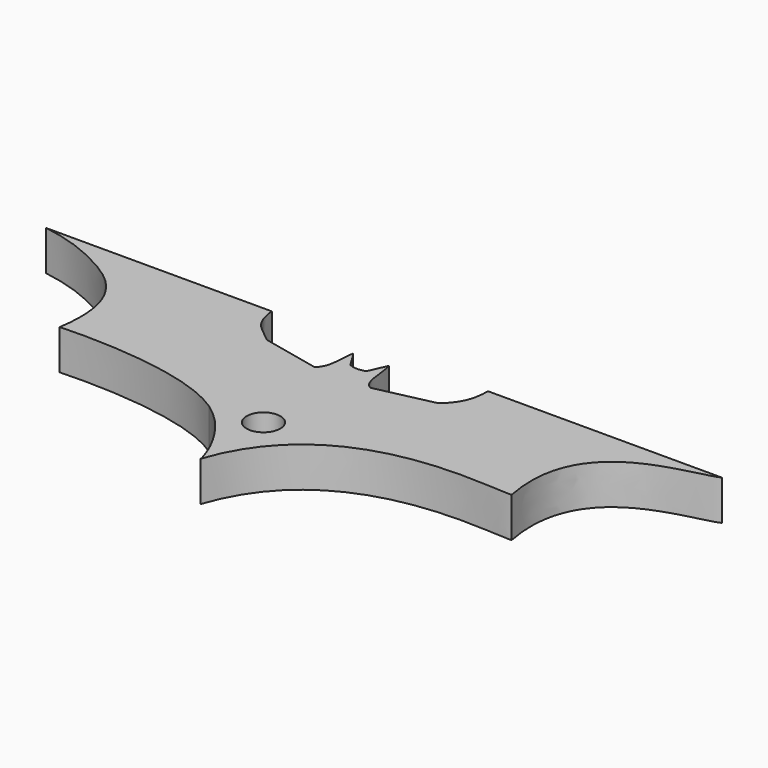
from build123d import *

# Parameters (mm, degrees)
F1_DEPTH = 3
F2_R     = 1.27
F3_DEPTH = 3


with BuildPart() as f1:
    # F0 (on Top) → F1 (new body)
    with BuildSketch(Plane.XY):
        with BuildLine():
            add(Edge.make_bspline(
                [(-16.9085351978, -1.7878697729), (-14.8443636354, -1.6895750583), (-7.6248778439, -1.5256503386), (-3.7704250062, -4.1743675483)],
                knots=[0, 0, 0, 0, 0.5855627903, 0.5855627903, 0.5855627903, 0.5855627903], degree=3))
            add(Edge.make_bspline(
                [(-16.9085351978, -1.7878697729), (-14.8443636354, -1.6895750583), (-7.5897151154, -1.5991376946), (-3.7704250062, -4.1743675483)],
                knots=[0, 0, 0, 0, 0.5584006059, 0.5584006059, 0.5584006059, 0.5584006059], degree=3))
        make_face()
        with BuildLine():
            add(Edge.make_bspline(
                [(-3.7704249537, -4.1743675837), (-1.808236756, -5.4974107594), (-0.7527996382, -7.5240476504), (-0.2885426992, -8.7132864323)],
                knots=[0.5584006085, 0.5584006085, 0.5584006085, 0.5584006085, 0.8452830018, 0.8452830018, 0.8452830018, 0.8452830018], degree=3))
            add(Edge.make_bspline(
                [(-3.770424954, -4.1743675842), (-1.8517399499, -5.492856691), (-0.7668728527, -7.5082873132), (-0.2885426992, -8.7132864323)],
                knots=[0.5855627929, 0.5855627929, 0.5855627929, 0.5855627929, 0.8770465912, 0.8770465912, 0.8770465912, 0.8770465912], degree=3))
        make_face()
        with BuildLine():
            add(Edge.make_bspline(
                [(-0.2885426992, -8.7132864323), (-0.1305291743, -9.1113507335), (-0.0387053265, -9.4209749157), (-0.0048777858, -9.5878189026)],
                knots=[0.8770465912, 0.8770465912, 0.8770465912, 0.8770465912, 0.9733365325, 0.9733365325, 0.9733365325, 0.9733365325], degree=3))
            add(Edge.make_bspline(
                [(-0.2885426992, -8.7132864323), (-0.1261850348, -9.1291811982), (-0.0361290935, -9.4426616269), (-0.0048777858, -9.5878189026)],
                knots=[0.8452830018, 0.8452830018, 0.8452830018, 0.8452830018, 0.9456101083, 0.9456101083, 0.9456101083, 0.9456101083], degree=3))
        make_face()
        with BuildLine():
            add(Edge.make_bspline(
                [(-16.9085351978, -1.7878697729), (-14.8443636354, -1.6895750583), (-7.6248778439, -1.5256503386), (-3.7704250062, -4.1743675483)],
                knots=[0, 0, 0, 0, 0.5855627903, 0.5855627903, 0.5855627903, 0.5855627903], degree=3))
            add(Edge.make_bspline(
                [(-16.9085351978, -1.7878697729), (-14.8443636354, -1.6895750583), (-7.5897151154, -1.5991376946), (-3.7704250062, -4.1743675483)],
                knots=[0, 0, 0, 0, 0.5584006059, 0.5584006059, 0.5584006059, 0.5584006059], degree=3))
        make_face()
        with BuildLine():
            Line((-8.4308702497, 7.5457646428), (-25.4, 7.5457646428))
            add(Edge.make_bspline(
                [(-25.4, 7.5457646428), (-23.6483064674, 7.2843289469), (-20.0677117846, 6.0530316163), (-16.1603537368, 2.9635369546), (-16.9085351978, -1.7878697729)],
                knots=[0, 0, 0, 0, 0.4420840454, 1, 1, 1, 1], degree=3))
            add(Edge.make_bspline(
                [(-16.9085351978, -1.7878697729), (-14.8443636354, -1.6895750583), (-7.6248778439, -1.5256503386), (-3.7704250062, -4.1743675483)],
                knots=[0, 0, 0, 0, 0.5855627903, 0.5855627903, 0.5855627903, 0.5855627903], degree=3))
            add(Edge.make_bspline(
                [(-3.7704249537, -4.1743675837), (-1.808236756, -5.4974107594), (-0.7527996382, -7.5240476504), (-0.2885426992, -8.7132864323)],
                knots=[0.5584006085, 0.5584006085, 0.5584006085, 0.5584006085, 0.8452830018, 0.8452830018, 0.8452830018, 0.8452830018], degree=3))
            add(Edge.make_bspline(
                [(-0.2885426992, -8.7132864323), (-0.1305291743, -9.1113507335), (-0.0387053265, -9.4209749157), (-0.0048777858, -9.5878189026)],
                knots=[0.8770465912, 0.8770465912, 0.8770465912, 0.8770465912, 0.9733365325, 0.9733365325, 0.9733365325, 0.9733365325], degree=3))
            add(Edge.make_bspline(
                [(-0.0048777858, -9.5878189026), (-0.0030520533, -9.5962991351), (0.0034010118, -9.627693158), (0.0067316298, -9.6498207392), (0.0077194734, -9.6630339588)],
                knots=[0.9456101083, 0.9456101083, 0.9456101083, 0.9456101083, 0.9514713176, 0.9688852048, 0.9688852048, 0.9688852048, 0.9688852048], degree=3))
            add(Edge.make_bspline(
                [(0.0077194734, -9.6630339588), (0.0090489603, -9.6743391034), (0.0098252939, -9.6841526902), (0.0100564033, -9.6924221324)],
                knots=[0.9904756857, 0.9904756857, 0.9904756857, 0.9904756857, 1, 1, 1, 1], degree=3))
            add(Edge.make_bspline(
                [(0.0100564033, -9.6924221324), (3.4792163022, 0.557724519), (16.1154395251, -2.1607646022), (17.1223111145, -1.8587033359)],
                knots=[0, 0, 0, 0, 18.8201065747, 18.8201065747, 18.8201065747, 18.8201065747], degree=3))
            add(Edge.make_bspline(
                [(17.1223111145, -1.8587033359), (15.5113176939, 6.498326787), (23.4365987873, 6.652168098), (25.4, 7.5457646428)],
                knots=[0, 0, 0, 0, 12.5285334835, 12.5285334835, 12.5285334835, 12.5285334835], degree=3))
            Line((25.4, 7.5457646428), (7.8300975704, 7.5457646428))
            add(Edge.make_bspline(
                [(6.4998223708, 4.5349283804), (7.7080674362, 5.5921426372), (7.7797549029, 6.5514806585), (7.8300975704, 7.5457646428)],
                knots=[0, 0, 0, 0, 3.2916207415, 3.2916207415, 3.2916207415, 3.2916207415], degree=3))
            Line((6.4998223708, 4.5349283804), (2.1702765008, 3.5784005108))
            add(Edge.make_bspline(
                [(1.2640924387, 6.4479827165), (1.5651943721, 5.4785436414), (1.3647794398, 3.8804617771), (2.1702765008, 3.5784005108)],
                knots=[0, 0, 0, 0, 3.0092642938, 3.0092642938, 3.0092642938, 3.0092642938], degree=3))
            Line((1.2640924387, 6.4479827165), (0.6599700071, 5.088707544))
            add(Edge.make_bspline(
                [(-0.5482755845, 5.088707544), (-0.1636578745, 4.9188830282), (0.2944398703, 4.9240014741), (0.6599700071, 5.088707544)],
                knots=[0, 0, 0, 0, 1.2082455915, 1.2082455915, 1.2082455915, 1.2082455915], degree=3))
            add(Edge.make_bspline(
                [(-1.3537724836, 6.3472959785), (-1.0517112172, 5.9613289802), (-0.8503368508, 5.4746745424), (-0.5482755845, 5.088707544)],
                knots=[0, 0, 0, 0, 1.4942791244, 1.4942791244, 1.4942791244, 1.4942791244], degree=3))
            add(Edge.make_bspline(
                [(-2.0585822804, 3.5784005108), (-1.3034290269, 4.1825230435), (-1.5551467488, 5.4578933024), (-1.3537724836, 6.3472959785)],
                knots=[0, 0, 0, 0, 2.8571907463, 2.8571907463, 2.8571907463, 2.8571907463], degree=3))
            Line((-2.0585822804, 3.5784005108), (-6.3881277997, 4.5349283804))
            add(Edge.make_bspline(
                [(-6.3881277997, 4.5349283804), (-7.4453427581, 5.4411121794), (-8.2798394412, 5.6956402285), (-8.4308702497, 7.5457646428)],
                knots=[0, 0, 0, 0, 3.6383968607, 3.6383968607, 3.6383968607, 3.6383968607], degree=3))
        make_face()
    extrude(amount=F1_DEPTH)

    # F2 (on face) → F3 (cut)
    with BuildSketch(Plane.XY.offset(3)):
        with Locations((0, -3.7812461494)):
            Circle(F2_R)
    extrude(amount=-F3_DEPTH, mode=Mode.SUBTRACT)


solid = f1.part
